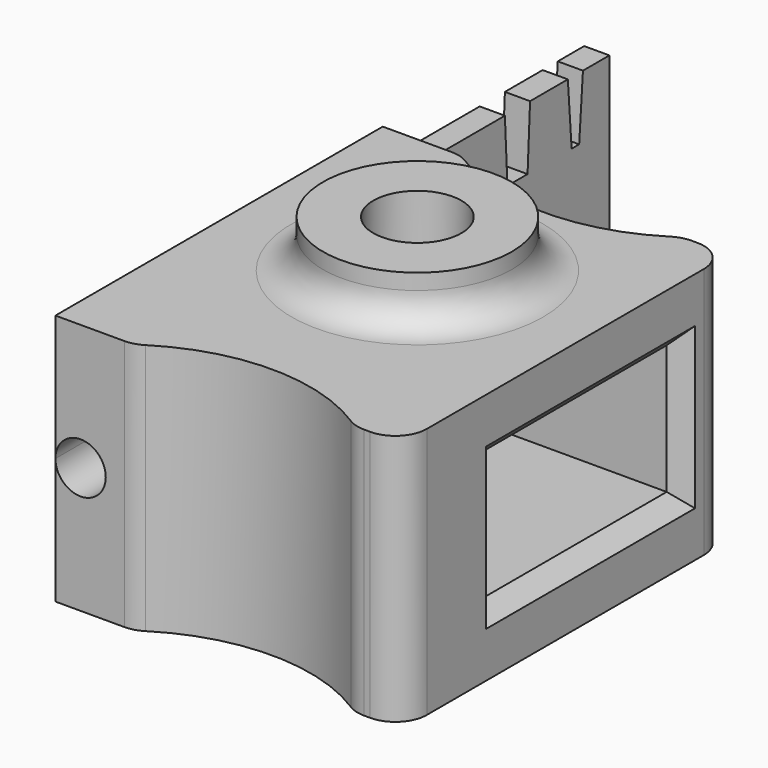
from build123d import *

# Parameters (mm, degrees)
PAD_DEPTH       = 16
SKETCH001_W     = 14.6
SKETCH001_H     = 8.2
POCKET_DEPTH    = 22.001
SKETCH002_W     = 1.6
SKETCH002_H     = 16
POCKET001_DEPTH = 2
CHAMFER_SIZE    = 1.99
POCKET002_DEPTH = 1.601
SKETCH005_R     = 6
SKETCH005_R_2   = 2.8
PAD001_DEPTH    = 3
POCKET003_DEPTH = 7
FILLET_R        = 2
FILLET001_R     = 2
CHAMFER001_SIZE = 1
CHAMFER002_SIZE = 1
SKETCH007_R     = 1.6
POCKET004_DEPTH = 4.5


with BuildPart() as part:
    # Sketch → Pad (new body)
    with BuildSketch(Plane.XY):
        with BuildLine():
            Line((5, 26), (1.6, 26))
            Line((1.6, 26), (1.6, 42))
            Line((1.6, 42), (0, 42))
            Line((0, 42), (0, 0))
            Line((0, 0), (5, 0))
            ThreePointArc((19, 0), (12, 2.206556), (5, 0))
            Line((22, 0), (19, 0))
            Line((22, 26), (22, 0))
            Line((19, 26), (22, 26))
            ThreePointArc((5, 26), (12, 23.793444), (19, 26))
        make_face()
    extrude(amount=PAD_DEPTH)

    # Sketch001 (on Face9 of Pad) → Pocket (cut, through all)
    with BuildSketch(Plane.YZ.offset(22)):
        with Locations((15, 8)):
            Rectangle(SKETCH001_W, SKETCH001_H)
    extrude(amount=-POCKET_DEPTH, mode=Mode.SUBTRACT)

    # Sketch002 (on DatumPlane) → Pocket001 (cut)
    with BuildSketch(Plane.XY.offset(16)):
        with Locations((0.8, 34)):
            Rectangle(SKETCH002_W, SKETCH002_H)
    extrude(amount=-POCKET001_DEPTH, mode=Mode.SUBTRACT)

    # Chamfer
    chamfer_edges = [part.edges().sort_by_distance(p)[0] for p in [
        (0.8, 26, 14),
    ]]
    chamfer(chamfer_edges, length=CHAMFER_SIZE)

    # Sketch003 (on DatumPlane) → Pocket002 (cut, through all)
    with BuildSketch(Plane.YZ.offset(1.6)):
        Polygon((33.7, 14), (35.7, 14), (35.5, 10), (33.9, 10), align=None)
        Polygon((38.7, 14), (39.9, 14), (39.6, 10), (39, 10), align=None)
    extrude(amount=-POCKET002_DEPTH, mode=Mode.SUBTRACT)

    # Sketch005 (on DatumPlane) → Pad001 (join)
    with BuildSketch(Plane.XY.offset(16)):
        with Locations((11, 15)):
            Circle(SKETCH005_R)
        with Locations((11, 15)):
            Circle(SKETCH005_R_2, mode=Mode.SUBTRACT)
    extrude(amount=PAD001_DEPTH)

    # Sketch006 (on DatumPlane) → Pocket003 (cut)
    with BuildSketch(Plane.XY.offset(16)):
        Polygon((15.849742, 15), (13.424871, 19.2), (8.575129, 19.2), (6.150258, 15), (8.575129, 10.8), (13.424871, 10.8), align=None)
    extrude(amount=-POCKET003_DEPTH, mode=Mode.SUBTRACT)

    # Fillet
    fillet_edges = [part.edges().sort_by_distance(p)[0] for p in [
        (5, 15, 16),
    ]]
    fillet(fillet_edges, radius=FILLET_R)

    # Fillet001
    fillet001_edges = [part.edges().sort_by_distance(p)[0] for p in [
        (22, 26, 8),
        (19, 26, 8),
        (5, 26, 8),
        (22, 0, 8),
        (19, 0, 8),
        (5, 0, 8),
    ]]
    fillet(fillet001_edges, radius=FILLET001_R)

    # Chamfer001
    chamfer001_edges = [part.edges().sort_by_distance(p)[0] for p in [
        (0, 15, 12.1),
        (0, 15, 3.9),
        (0, 7.7, 8),
        (0, 22.3, 8),
    ]]
    chamfer(chamfer001_edges, length=CHAMFER001_SIZE)

    # Chamfer002
    chamfer002_edges = [part.edges().sort_by_distance(p)[0] for p in [
        (22, 22.3, 8),
        (22, 15, 12.1),
        (22, 7.7, 8),
        (22, 15, 3.9),
    ]]
    chamfer(chamfer002_edges, length=CHAMFER002_SIZE)

    # Sketch007 (on DatumPlane) → Pocket004 (cut)
    with BuildSketch(Plane.XZ):
        with Locations((1.6, 8)):
            Circle(SKETCH007_R)
    extrude(amount=-POCKET004_DEPTH, mode=Mode.SUBTRACT)


solid = part.part
